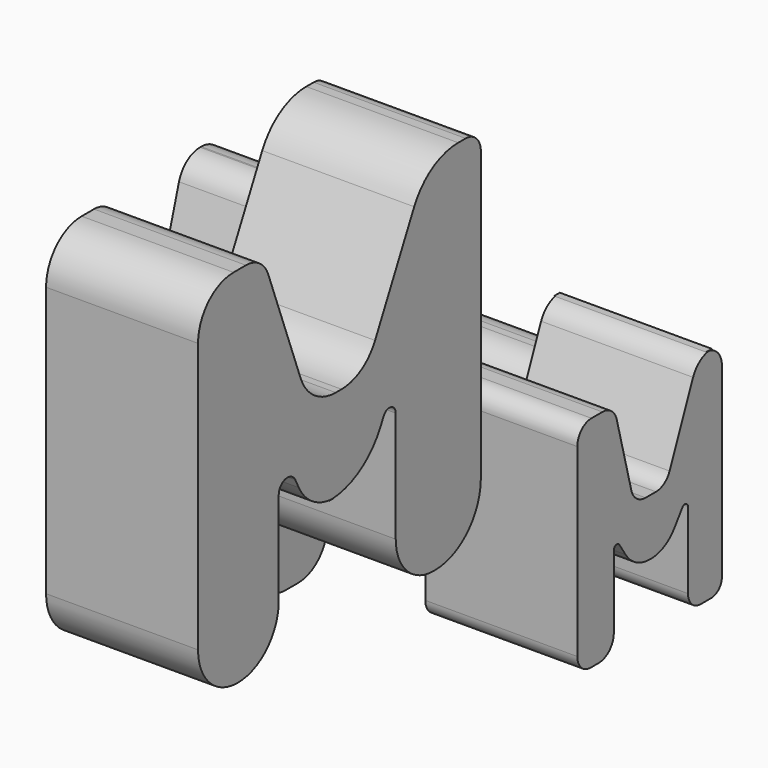
from build123d import *

# Parameters (mm, degrees)
F1_DEPTH = 25
F3_DEPTH = 25
F5_DEPTH = 25
F7_DEPTH = 25


with BuildPart() as f1:
    # F0 (on Right) → F1 (new body)
    with BuildSketch(Plane.YZ):
        with BuildLine():
            ThreePointArc((-42.312005, 26.007977), (-42.535172, 26.011046), (-42.75817, 26.02025))
            ThreePointArc((-42.75817, 26.02025), (-43.027788, 26.011045), (-43.297546, 26.007977))
            Line((-43.297546, 26.007977), (-42.312005, 26.007977))
        make_face()
        with BuildLine():
            Line((-70.273437, 59.773509), (-70.273437, 15.388939))
            ThreePointArc((-70.273437, 15.388939), (-67.966195, 9.731049), (-62.360368, 7.300045))
            Line((-62.360368, 7.300045), (-62.26204, 7.297884))
            ThreePointArc((-62.26204, 7.297884), (-56.208633, 9.689187), (-53.684898, 15.688589))
            Line((-53.684898, 15.688589), (-53.684898, 31.070014))
            ThreePointArc((-53.684898, 31.070014), (-52.299912, 32.823773), (-50.272896, 31.882995))
            Line((-50.272896, 31.882995), (-49.556091, 30.464213))
            ThreePointArc((-49.556091, 30.464213), (-46.752973, 27.330773), (-42.75817, 26.02025))
            ThreePointArc((-42.75817, 26.02025), (-36.855957, 27.910036), (-32.713019, 32.519103))
            Line((-32.713019, 32.519103), (-32.096468, 33.739451))
            ThreePointArc((-32.096468, 33.739451), (-30.626661, 34.421618), (-29.622396, 33.149951))
            Line((-29.622396, 33.149951), (-29.622396, 14.886579))
            ThreePointArc((-29.622396, 14.886579), (-27.344506, 9.387266), (-21.845192, 7.109375))
            Line((-21.845192, 7.109375), (-21.597221, 7.109375))
            ThreePointArc((-21.597221, 7.109375), (-14.897508, 9.884487), (-12.122396, 16.5842))
            Line((-12.122396, 16.5842), (-12.122396, 63.971421))
            ThreePointArc((-12.122396, 63.971421), (-13.033855, 66.171878), (-15.234312, 67.083336))
            Line((-15.234312, 67.083336), (-16.777582, 67.083336))
            ThreePointArc((-16.777582, 67.083336), (-22.095797, 65.572543), (-25.82547, 61.491434))
            Line((-25.82547, 61.491434), (-33.872003, 45.398368))
            ThreePointArc((-33.872003, 45.398368), (-36.714132, 42.288434), (-40.766779, 41.137162))
            Line((-40.766779, 41.137162), (-41.962627, 41.137162))
            ThreePointArc((-41.962627, 41.137162), (-46.353402, 42.509865), (-49.180409, 46.139088))
            Line((-49.180409, 46.139088), (-55.843828, 63.908203))
            ThreePointArc((-55.843828, 63.908203), (-57.638361, 66.211969), (-60.425547, 67.083336))
            Line((-60.425547, 67.083336), (-62.963609, 67.083336))
            ThreePointArc((-62.963609, 67.083336), (-68.132438, 64.942337), (-70.273437, 59.773509))
        make_face()
    extrude(amount=F1_DEPTH)

    # F2 (on Right) → F3 (join)
    with BuildSketch(Plane.YZ):
        with BuildLine():
            Line((-7.124937, 46.333829), (-7.36219, 46.333829))
            ThreePointArc((-7.36219, 46.333829), (-10.063572, 45.437381), (-11.693057, 43.103744))
            Line((-11.693057, 43.103744), (-24.443611, 0.241975))
            ThreePointArc((-24.443611, 0.241975), (-23.910683, -2.757462), (-21.187712, -4.123502))
            Line((-21.187712, -4.123502), (-18.448257, -4.123502))
            ThreePointArc((-18.448257, -4.123502), (-14.408923, -2.560225), (-12.474373, 1.315026))
            Line((-12.474373, 1.315026), (-11.9515, 6.875921))
            ThreePointArc((-11.9515, 6.875921), (-11.112334, 8.556922), (-9.360157, 9.235038))
            Line((-9.360157, 9.235038), (-4.921758, 9.235038))
            ThreePointArc((-4.921758, 9.235038), (-3.534337, 8.674148), (-2.926506, 7.306641))
            Line((-2.926506, 7.306641), (-2.746653, 2.030499))
            ThreePointArc((-2.746653, 2.030499), (-0.910619, -2.100235), (3.280267, -3.794477))
            Line((3.280267, -3.794477), (3.515583, -3.794477))
            ThreePointArc((3.515583, -3.794477), (7.514666, -1.813932), (8.363068, 2.567329))
            Line((8.363068, 2.567329), (-2.768474, 43.014349))
            ThreePointArc((-2.768474, 43.014349), (-4.386428, 45.409393), (-7.124937, 46.333829))
        make_face()
        with BuildLine():
            Line((-10.732168, 14.506254), (-10.732168, 16.798608))
            ThreePointArc((-10.732168, 16.798608), (-10.073272, 18.389324), (-8.482557, 19.04822))
            Line((-8.482557, 19.04822), (-7.542723, 19.04822))
            ThreePointArc((-7.542723, 19.04822), (-5.816858, 18.357859), (-5.043229, 16.66768))
            Line((-5.043229, 16.66768), (-4.941344, 14.579062))
            ThreePointArc((-4.941344, 14.579062), (-5.351816, 13.47566), (-6.433909, 13.011915))
            Line((-6.433909, 13.011915), (-9.237829, 13.011915))
            ThreePointArc((-9.237829, 13.011915), (-10.294487, 13.449596), (-10.732168, 14.506254))
        make_face(mode=Mode.SUBTRACT)
    extrude(amount=-F3_DEPTH)

    # F4 (on Right) → F5 (join)
    with BuildSketch(Plane.YZ):
        with BuildLine():
            ThreePointArc((34.18857, 16.039507), (34.467843, 16.027538), (34.745067, 15.991716))
            ThreePointArc((34.745067, 15.991716), (35.058963, 16.027542), (35.37467, 16.039507))
            Line((35.37467, 16.039507), (34.18857, 16.039507))
        make_face()
        with BuildLine():
            Line((7.712483, 13.128328), (7.712483, -17.274895))
            ThreePointArc((7.712483, -17.274895), (8.514778, -19.211805), (10.451688, -20.0141))
            Line((10.451688, -20.0141), (12.103662, -20.0141))
            ThreePointArc((12.103662, -20.0141), (14.311225, -19.099697), (15.225627, -16.892135))
            Line((15.225627, -16.892135), (15.225627, -4.95546))
            ThreePointArc((15.225627, -4.95546), (15.673394, -4.355624), (16.375787, -4.614359))
            Line((16.375787, -4.614359), (17.643087, -6.563044))
            ThreePointArc((17.643087, -6.563044), (19.80853, -8.562795), (22.66552, -9.287882))
            Line((22.66552, -9.287882), (22.815599, -9.287882))
            ThreePointArc((22.815599, -9.287882), (25.567106, -8.61867), (27.703921, -6.760539))
            Line((27.703921, -6.760539), (29.32815, -4.468306))
            ThreePointArc((29.32815, -4.468306), (30.036787, -4.231068), (30.477826, -4.834336))
            Line((30.477826, -4.834336), (30.477826, -17.419205))
            ThreePointArc((30.477826, -17.419205), (31.237853, -19.254073), (33.07272, -20.0141))
            Line((33.07272, -20.0141), (35.261726, -20.0141))
            ThreePointArc((35.261726, -20.0141), (36.810801, -19.372452), (37.452448, -17.823378))
            Line((37.452448, -17.823378), (37.452448, 12.77563))
            ThreePointArc((37.452448, 12.77563), (36.685492, 14.8776), (34.745067, 15.991716))
            ThreePointArc((34.745067, 15.991716), (32.804703, 15.153718), (31.524237, 13.472154))
            Line((31.524237, 13.472154), (26.691334, 1.868516))
            ThreePointArc((26.691334, 1.868516), (25.573071, 0.509963), (23.888994, 0))
            Line((23.888994, 0), (21.759759, 0))
            ThreePointArc((21.759759, 0), (19.904163, 0.633155), (18.822613, 2.268505))
            Line((18.822613, 2.268505), (15.818161, 13.771002))
            ThreePointArc((15.818161, 13.771002), (14.73661, 15.406352), (12.881014, 16.039507))
            Line((12.881014, 16.039507), (10.623663, 16.039507))
            ThreePointArc((10.623663, 16.039507), (8.565148, 15.186843), (7.712483, 13.128328))
        make_face()
    extrude(amount=F5_DEPTH)

    # F6 (on Right) → F7 (join)
    with BuildSketch(Plane.YZ):
        with BuildLine():
            Line((40.474585, -4.094413), (34.664634, -26.780793))
            ThreePointArc((34.664634, -26.780793), (35.158235, -29.158759), (37.339398, -30.226883))
            Line((37.339398, -30.226883), (37.948593, -30.226883))
            ThreePointArc((37.948593, -30.226883), (39.465997, -29.682855), (40.292074, -28.298629))
            Line((40.292074, -28.298629), (41.255346, -23.390523))
            ThreePointArc((41.255346, -23.390523), (41.839937, -22.410947), (42.91376, -22.025954))
            Line((42.91376, -22.025954), (49.011535, -22.025954))
            ThreePointArc((49.011535, -22.025954), (50.094433, -22.4142), (50.683964, -23.402054))
            Line((50.683964, -23.402054), (51.489984, -27.508913))
            ThreePointArc((51.489984, -27.508913), (52.654382, -29.460048), (54.79324, -30.226883))
            Line((54.79324, -30.226883), (55.079278, -30.226883))
            ThreePointArc((55.079278, -30.226883), (56.965589, -29.30337), (57.393027, -27.247077))
            Line((57.393027, -27.247077), (51.271783, -3.307557))
            ThreePointArc((51.271783, -3.307557), (49.684894, -0.90122), (46.950989, 0.012254))
            Line((46.950989, 0.012254), (45.749709, 0))
            ThreePointArc((45.749709, 0), (42.410878, -1.143713), (40.474585, -4.094413))
        make_face()
        with BuildLine():
            ThreePointArc((45.088106, -16.89079), (43.799738, -16.259871), (43.508178, -14.855256))
            Line((43.508178, -14.855256), (44.540585, -10.823966))
            ThreePointArc((44.540585, -10.823966), (44.944057, -10.209119), (45.639781, -9.970799))
            Line((45.639781, -9.970799), (45.937924, -9.970799))
            ThreePointArc((45.937924, -9.970799), (46.536573, -10.172391), (46.891338, -10.69504))
            Line((46.891338, -10.69504), (48.103382, -15.048624))
            ThreePointArc((48.103382, -15.048624), (47.860716, -16.31687), (46.704019, -16.89079))
            Line((46.704019, -16.89079), (45.088106, -16.89079))
        make_face(mode=Mode.SUBTRACT)
    extrude(amount=-F7_DEPTH)


solid = f1.part
